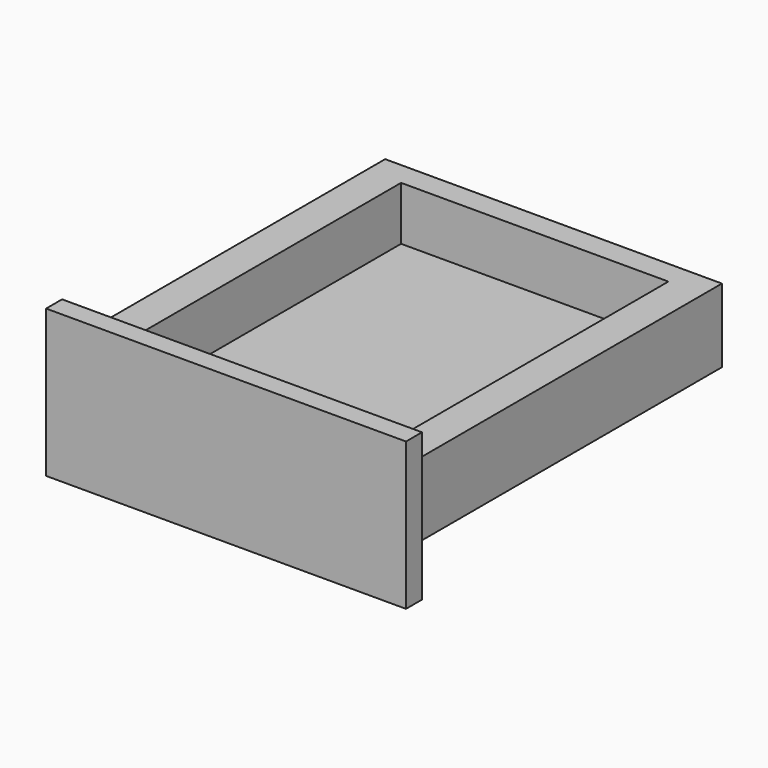
from build123d import *

# Parameters (mm, degrees)
F0_W     = 320
F0_H     = 370
F1_DEPTH = 70
F2_W     = 254.012
F2_H     = 325.316
F3_DEPTH = 51
F4_W     = 342
F4_H     = 140
F5_DEPTH = 19


with BuildPart() as f1:
    # F0 (on Top) → F1 (new body)
    with BuildSketch(Plane.XY):
        Rectangle(F0_W, F0_H)
    extrude(amount=F1_DEPTH)

    # F2 (on face) → F3 (cut)
    with BuildSketch(Plane.XY.offset(70)):
        Rectangle(F2_W, F2_H)
    extrude(amount=-F3_DEPTH, mode=Mode.SUBTRACT)

    # F4 (on face) → F5 (join)
    with BuildSketch(Plane.XZ.offset(185)):
        with Locations((0, 29.569484)):
            Rectangle(F4_W, F4_H)
    extrude(amount=F5_DEPTH)


solid = f1.part
